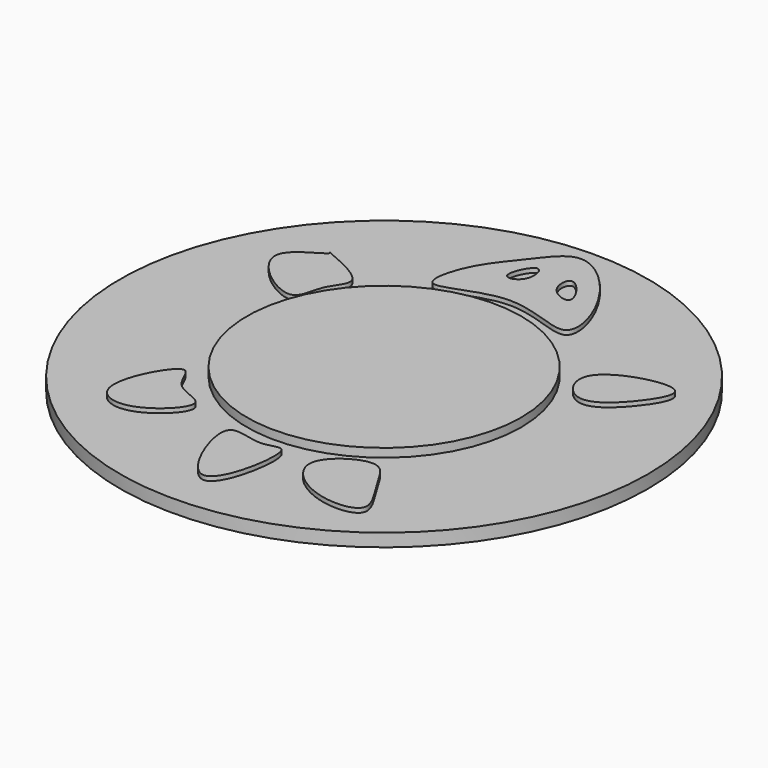
from build123d import *

# Parameters (mm, degrees)
F0_R     = 61.2226835339
F1_DEPTH = 3
F2_R     = 31.8142279916
F3_DEPTH = 2
F5_DEPTH = 1
F7_DEPTH = 1
F9_DEPTH = 1


with BuildPart() as f1:
    # F0 (on Top) → F1 (new body)
    with BuildSketch(Plane.XY):
        Circle(F0_R)
    extrude(amount=F1_DEPTH)

    # F2 (on face) → F3 (join)
    with BuildSketch(Plane.XY.offset(3)):
        Circle(F2_R)
    extrude(amount=F3_DEPTH)

    # F4 (on face) → F5 (join)
    with BuildSketch(Plane.XY.offset(3)):
        with BuildLine():
            add(Edge.make_bspline(
                [(-14.87968117, 32.7072180808), (-12.9078093745, 31.387344526), (0.0578711193, 40.5124214051), (18.9971252767, 28.0651679358), (14.4710653767, 46.9261725299), (-0.1142532985, 61.113526996), (-7.4677472524, 49.9176480493), (-14.0853789879, 43.0270366462), (-16.3751816085, 33.7082321854), (-14.87968117, 32.7072180808)],
                knots=[0, 0, 0, 0, 0.1564167654, 0.3150630542, 0.4553916294, 0.6229649329, 0.7467966593, 0.8813709179, 1, 1, 1, 1], degree=3))
        make_face()
    extrude(amount=F5_DEPTH)

    # F6 (on face) → F7 (join)
    with BuildSketch(Plane.XY.offset(3)):
        with BuildLine():
            add(Edge.make_bspline(
                [(-27.2326227278, 24.8462557793), (-28.9600024397, 27.4164790456), (-38.5472361274, 31.0500317907), (-35.4231704349, 29.8042864663), (-51.5005992935, 24.4137840326), (-29.8368693728, 8.3759494407), (-30.4404623041, 19.6136681066), (-25.9525831033, 22.9416440707), (-27.2326227278, 24.8462557793)],
                knots=[0, 0, 0, 0, 0.2087336544, 0.2478300017, 0.4394454659, 0.6852509841, 0.8453221682, 1, 1, 1, 1], degree=3))
        make_face()
        with BuildLine():
            add(Edge.make_bspline(
                [(-28.917113319, -22.0387708396), (-27.5003930415, -21.9098535472), (-26.6990568222, -28.8922288853), (-14.8331141955, -29.5306728354), (-27.1673748588, -41.9065069488), (-39.1660375744, -36.9431954506), (-31.0829784884, -22.2358580683), (-28.917113319, -22.0387708396)],
                knots=[0, 0, 0, 0, 0.1625033694, 0.3386108404, 0.5613775423, 0.7515667748, 1, 1, 1, 1], degree=3))
        make_face()
        with BuildLine():
            add(Edge.make_bspline(
                [(-7.8609632328, -35.7954576612), (-9.3032232795, -39.0689272966), (1.3529994687, -65.3423557846), (7.3502830994, -31.6092071176), (0.0843054699, -37.5875485081), (-6.9100017785, -33.6370789053), (-7.8609632328, -35.7954576612)],
                knots=[0, 0, 0, 0, 0.3182837643, 0.6266147876, 0.7901379906, 1, 1, 1, 1], degree=3))
        make_face()
        with BuildLine():
            add(Edge.make_bspline(
                [(12.0721934363, -35.7954576612), (12.7845084674, -32.3558509787), (22.4552654373, -26.2256059935), (26.0415490673, -35.5120988732), (33.9888682992, -45.5846452509), (19.2629874981, -46.6235297098), (11.3265194922, -39.3961469201), (12.0721934363, -35.7954576612)],
                knots=[0, 0, 0, 0, 0.2090419656, 0.3906159753, 0.5810239034, 0.7811682469, 1, 1, 1, 1], degree=3))
        make_face()
        with BuildLine():
            add(Edge.make_bspline(
                [(30.0401095301, 22.0387708396), (28.3222311363, 18.9156989541), (33.7733886466, 10.4638328697), (43.3791296248, 19.144534311), (49.9146437231, 30.91010751), (32.3986367127, 26.3265306496), (30.0401095301, 22.0387708396)],
                knots=[0, 0, 0, 0, 0.224748734, 0.4804602213, 0.6914356683, 1, 1, 1, 1], degree=3))
        make_face()
    extrude(amount=F7_DEPTH)

    # F8 (on face) → F9 (cut)
    with BuildSketch(Plane.XY.offset(4)):
        with BuildLine():
            add(Edge.make_bspline(
                [(-3.6497339606, 48.9906445146), (-4.9441305584, 48.8632643976), (-8.3277209771, 41.5516230066), (-1.3143864863, 43.681220463), (-2.5345606049, 49.1003874734), (-3.6497339606, 48.9906445146)],
                knots=[0, 0, 0, 0, 0.3815367486, 0.6712911507, 1, 1, 1, 1], degree=3))
        make_face()
        with BuildLine():
            add(Edge.make_bspline(
                [(4.4919815846, 48.9906445146), (3.3039956811, 49.0363284506), (2.7818272854, 43.8207759873), (11.7835506279, 40.8205314489), (6.0484948115, 48.9307888795), (4.4919815846, 48.9906445146)],
                knots=[0, 0, 0, 0, 0.2961767067, 0.6119457645, 1, 1, 1, 1], degree=3))
        make_face()
    extrude(amount=-F9_DEPTH, mode=Mode.SUBTRACT)


solid = f1.part
